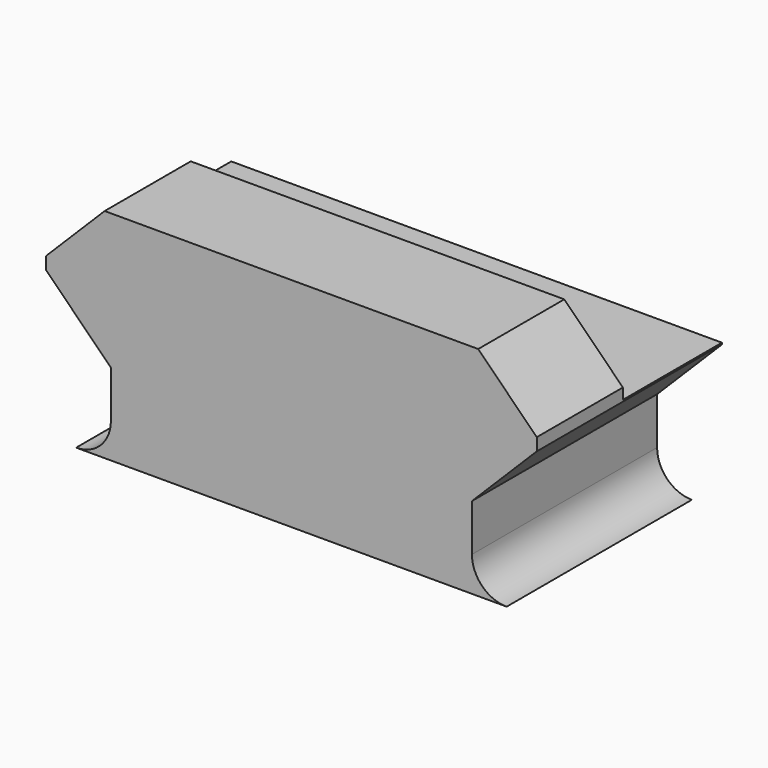
from build123d import *

# Parameters (mm, degrees)
F1_DEPTH = 10
F2_W     = 21.2
F2_H     = 3
F3_DEPTH = 5.35


with BuildPart() as f1:
    # F0 (on Front) → F1 (new body)
    with BuildSketch(Plane.XZ):
        with BuildLine():
            Line((-10.6, -2.53), (-10.6, -3.07))
            Line((-10.6, -3.07), (-7.8, -5.87))
            Line((-7.8, -5.87), (-7.8, -7.9))
            ThreePointArc((-7.8, -7.9), (-8.23934, -8.96066), (-9.3, -9.4))
            Line((-9.3, -9.4), (9.3, -9.4))
            ThreePointArc((9.3, -9.4), (8.23934, -8.96066), (7.8, -7.9))
            Line((7.8, -7.9), (7.8, -5.87))
            Line((7.8, -5.87), (10.6, -3.07))
            Line((10.6, -3.07), (10.6, -2.53))
            Line((10.6, -2.53), (8.07, 0))
            Line((8.07, 0), (-8.07, 0))
            Line((-8.07, 0), (-10.6, -2.53))
        make_face()
    extrude(amount=F1_DEPTH)


with BuildPart() as f3:
    # F2 (on Front) → F3 (new body)
    with BuildSketch(Plane.XZ):
        with Locations((0, -1.5)):
            Rectangle(F2_W, F2_H)
    extrude(amount=F3_DEPTH)


with BuildPart() as f1_1:
    add(f1.part)

    # F4: cut F3
    add(f3.part, mode=Mode.SUBTRACT)


solid = f1_1.part
